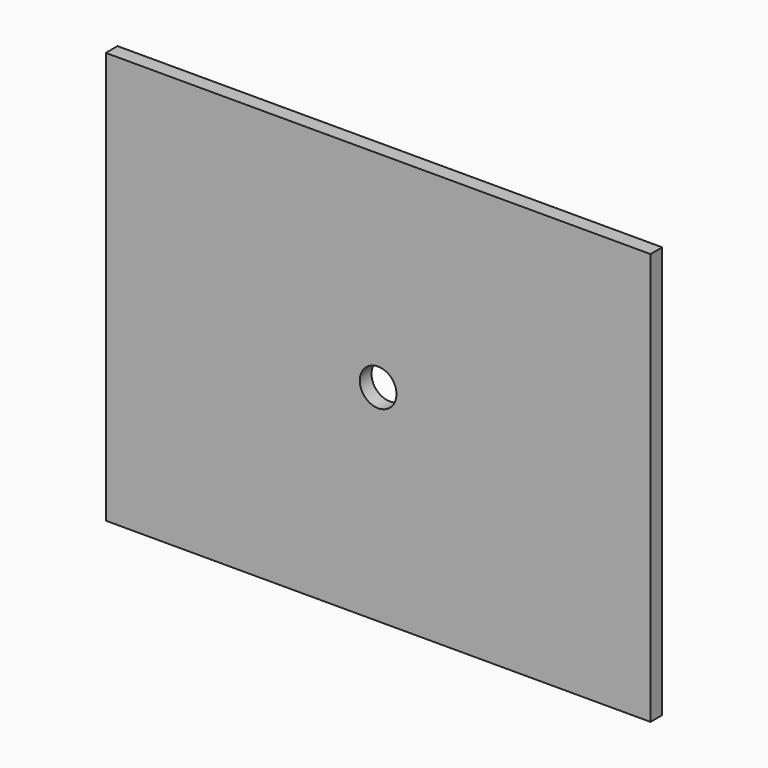
from build123d import *

# Parameters (mm, degrees)
F0_W     = 94.220736
F0_H     = 71.233616
F1_DEPTH = 2.54
F2_R     = 3.175
F3_DEPTH = 2.54


with BuildPart() as f1:
    # F0 (on Front) → F1 (new body)
    with BuildSketch(Plane.XZ):
        Rectangle(F0_W, F0_H)
    extrude(amount=F1_DEPTH)

    # F2 (on face) → F3 (cut, through all)
    with BuildSketch(Plane.XZ.offset(2.54)):
        Circle(F2_R)
    extrude(amount=-F3_DEPTH, mode=Mode.SUBTRACT)


solid = f1.part
